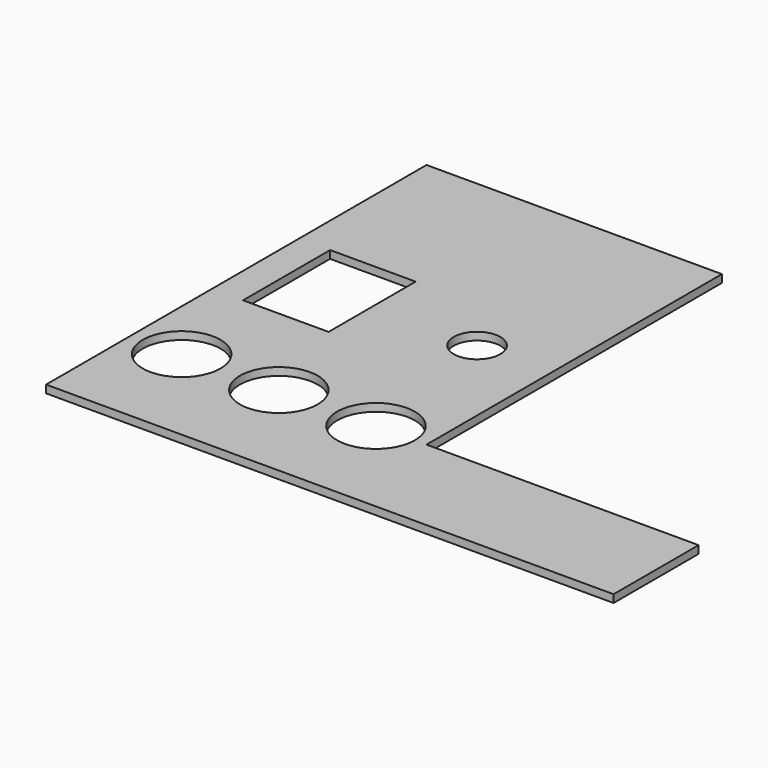
from build123d import *

# Parameters (mm, degrees)
F0_R     = 10
F0_W     = 22
F0_H     = 28
F0_R_2   = 6
F1_DEPTH = 2


with BuildPart() as f1:
    # F0 (on Top) → F1 (new body)
    with BuildSketch(Plane.XY):
        Polygon((0, 0), (146, 0), (146, 27.341935), (76, 27.341935), (76, 122.341935), (38, 122.341935), (0, 122.341935), align=None)
        with Locations((13, 27.341935)):
            Circle(F0_R, mode=Mode.SUBTRACT)
        with Locations((38, 27.341935)):
            Circle(F0_R, mode=Mode.SUBTRACT)
        with Locations((63, 27.341935)):
            Circle(F0_R, mode=Mode.SUBTRACT)
        with Locations((19, 67.341935)):
            Rectangle(F0_W, F0_H, mode=Mode.SUBTRACT)
        with Locations((57, 67.341935)):
            Circle(F0_R_2, mode=Mode.SUBTRACT)
    extrude(amount=F1_DEPTH)


solid = f1.part
